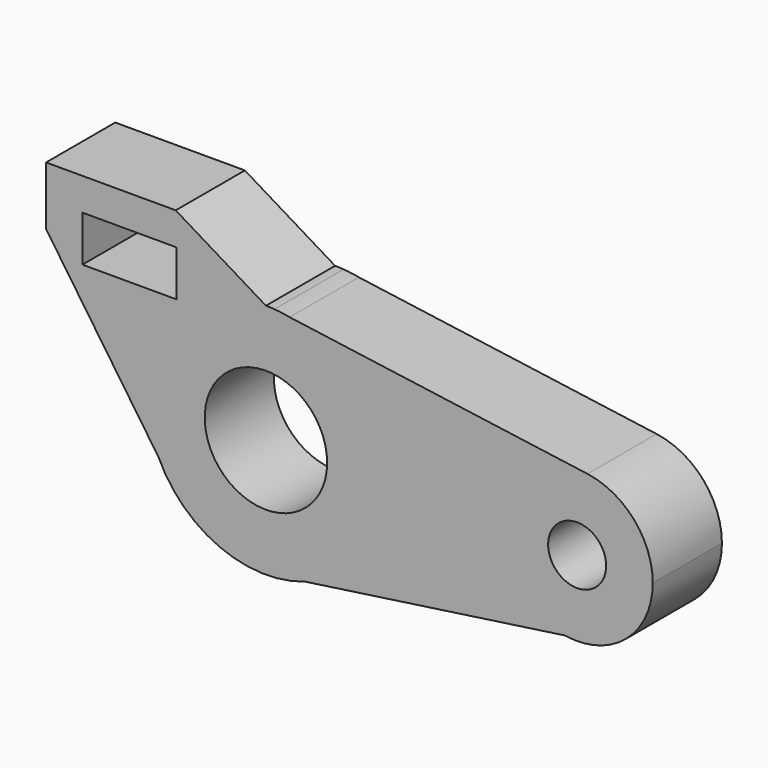
from build123d import *

# Parameters (mm, degrees)
F0_R     = 17.986048
F0_R_2   = 8.517219
F1_DEPTH = 25.4


with BuildPart() as f1:
    # F0 (on Front) → F1 (new body)
    with BuildSketch(Plane.XZ):
        with BuildLine():
            Line((6.968918, 34.091828), (2.523895, 34.705166))
            ThreePointArc((2.523895, 34.705166), (1.262779, 34.773898), (0, 34.796818))
            ThreePointArc((0, 34.796818), (-29.316392, 18.744805), (-31.585075, -14.601425))
            ThreePointArc((-31.585075, -14.601425), (-13.574429, -32.039873), (11.482109, -32.847827))
            ThreePointArc((11.482109, -32.847827), (28.375689, -20.140478), (34.796818, 0))
            ThreePointArc((34.796818, 0), (26.956583, 22.003663), (6.968918, 34.091828))
        make_face()
        Circle(F0_R, mode=Mode.SUBTRACT)
        with BuildLine():
            ThreePointArc((6.968918, 34.091828), (4.756303, 34.470221), (2.523895, 34.705166))
            Line((2.523895, 34.705166), (6.968918, 34.091828))
        make_face()
        Polygon((-26.343811, 34.796818), (0, 34.796818), (-26.504347, 50.855222), (-26.504347, 41.345175), (-26.343811, 41.345175), align=None)
        with BuildLine():
            ThreePointArc((-31.585075, -14.601425), (-29.316392, 18.744805), (0, 34.796818))
            Line((0, 34.796818), (-26.343811, 34.796818))
            Line((-26.343811, 34.796818), (-26.343811, 27.887493))
            Line((-26.343811, 27.887493), (-53.915653, 27.887493))
            Line((-53.915653, 27.887493), (-53.915653, 33.627392))
            Line((-53.915653, 33.627392), (-64.604347, 33.627392))
            Line((-64.604347, 33.627392), (-31.585075, -14.601425))
        make_face()
        with BuildLine():
            Line((94.482827, 22.0164), (6.968918, 34.091828))
            ThreePointArc((6.968918, 34.091828), (26.956583, 22.003663), (34.796818, 0))
            ThreePointArc((34.796818, 0), (28.375689, -20.140478), (11.482109, -32.847827))
            Line((11.482109, -32.847827), (87.876434, -21.936645))
            ThreePointArc((87.876434, -21.936645), (69.466815, 3.303437), (94.482827, 22.0164))
        make_face()
        Polygon((-26.504347, 41.345175), (-26.504347, 50.855222), (-64.604347, 50.855222), (-64.604347, 33.627392), (-53.915653, 33.627392), (-53.915653, 41.345175), align=None)
        with BuildLine():
            ThreePointArc((113.669939, 0), (108.200053, 14.601944), (94.482827, 22.0164))
            ThreePointArc((94.482827, 22.0164), (69.466815, 3.303437), (87.876434, -21.936645))
            ThreePointArc((87.876434, -21.936645), (105.843561, -16.93016), (113.669939, 0))
        make_face()
        with Locations((91.444939, 0)):
            Circle(F0_R_2, mode=Mode.SUBTRACT)
    extrude(amount=F1_DEPTH)


solid = f1.part
